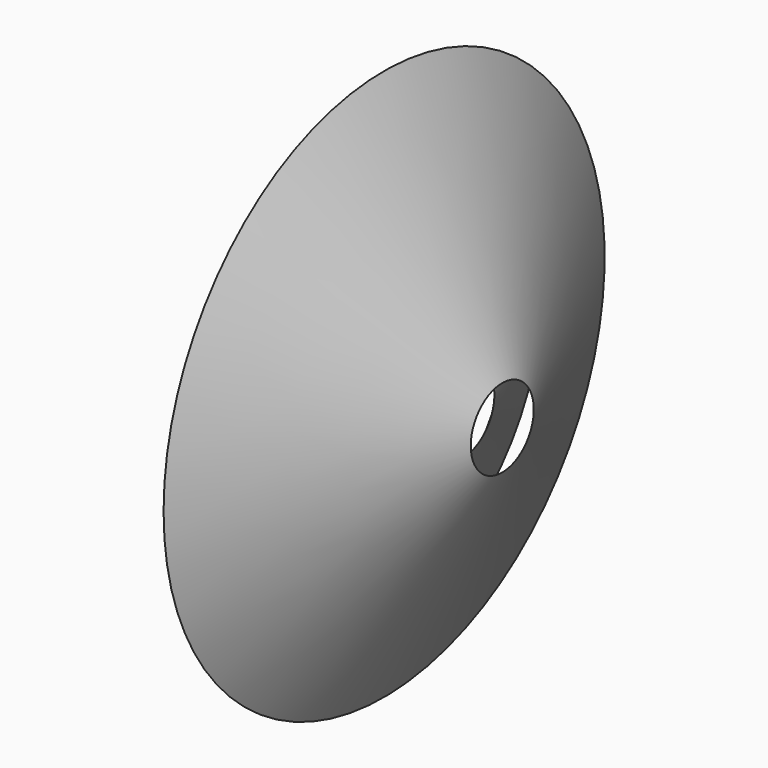
from build123d import *


with BuildPart() as f1:
    # F0 (on Top) → F1 (revolve)
    with BuildSketch(Plane.XY):
        Polygon((0, -15), (5, -5), (0, -10), align=None)
        Polygon((10, -5), (0, -20), (0, -25), align=None)
        Polygon((15, -5), (0, -30), (0, -35), align=None)
    revolve(axis=Axis((-1.726805, 0, 0), (1, 0, 0)))


solid = f1.part
